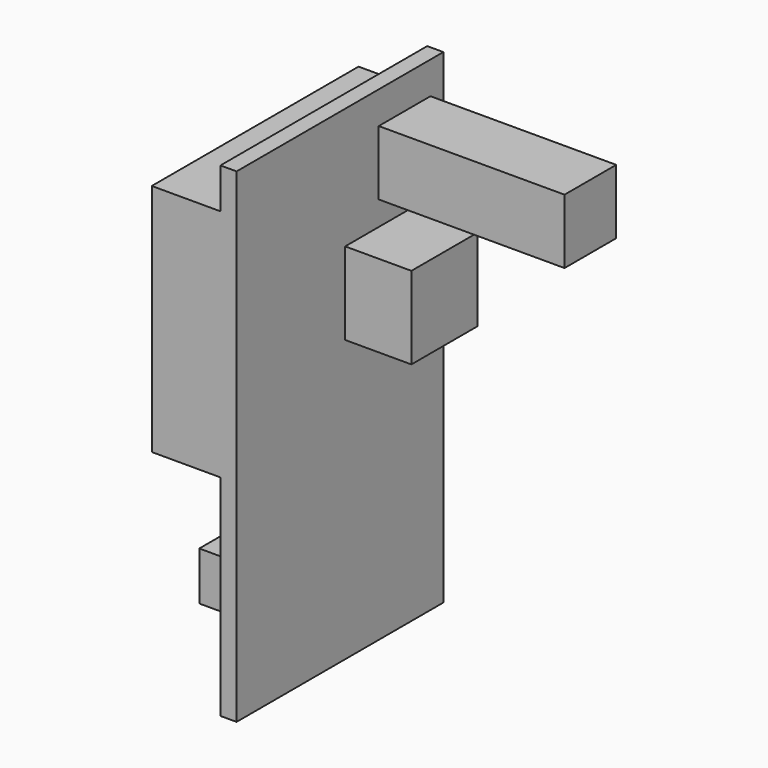
from build123d import *

# Parameters (mm, degrees)
F0_W     = 10.2
F0_H     = 10.2
F0_W_2   = 32
F0_H_2   = 26
F0_W_3   = 6
F0_H_3   = 6
F0_W_4   = 8
F0_H_4   = 7
F0_H_5   = 1
F1_DEPTH = 2
F2_DEPTH = 8.5
F3_DEPTH = 10.2
F4_DEPTH = 25
F6_DEPTH = 5.5


with BuildPart() as f1:
    # F0 (on Right) → F1 (new body)
    with BuildSketch(Plane.YZ):
        Polygon((0, 55), (0, 26), (32, 26), (32, 55), (30, 55), (30, 48), (22, 48), (22, 55), align=None)
        with Locations((21.9, 39.9)):
            Rectangle(F0_W, F0_H, mode=Mode.SUBTRACT)
        with Locations((16, 13)):
            Rectangle(F0_W_2, F0_H_2)
        with Locations((6.6, 12)):
            Rectangle(F0_W_3, F0_H_3, mode=Mode.SUBTRACT)
        with Locations((25.4, 12)):
            Rectangle(F0_W_3, F0_H_3, mode=Mode.SUBTRACT)
        Polygon((0, 60), (0, 55), (22, 55), (22, 56), (30, 56), (30, 55), (32, 55), (32, 60), align=None)
        with Locations((21.9, 39.9)):
            Rectangle(F0_W, F0_H)
        with Locations((26, 51.5)):
            Rectangle(F0_W_4, F0_H_4)
        with Locations((25.4, 12)):
            Rectangle(F0_W_3, F0_H_3)
        with Locations((6.6, 12)):
            Rectangle(F0_W_3, F0_H_3)
        with Locations((26, 55.5)):
            Rectangle(F0_W_4, F0_H_5)
    extrude(amount=F1_DEPTH)

    # F0 (on Right) → F2 (join)
    with BuildSketch(Plane.YZ):
        Polygon((0, 55), (0, 26), (32, 26), (32, 55), (30, 55), (30, 48), (22, 48), (22, 55), align=None)
        with Locations((21.9, 39.9)):
            Rectangle(F0_W, F0_H, mode=Mode.SUBTRACT)
        with Locations((26, 51.5)):
            Rectangle(F0_W_4, F0_H_4)
        with Locations((21.9, 39.9)):
            Rectangle(F0_W, F0_H)
    extrude(amount=-F2_DEPTH)

    # F0 (on Right) → F4 (join)
    with BuildSketch(Plane.YZ):
        with Locations((26, 51.5)):
            Rectangle(F0_W_4, F0_H_4)
        with Locations((26, 55.5)):
            Rectangle(F0_W_4, F0_H_5)
    extrude(amount=F4_DEPTH)


with BuildPart() as f3:
    # F0 (on Right) → F3 (new body)
    with BuildSketch(Plane.YZ):
        with Locations((21.9, 39.9)):
            Rectangle(F0_W, F0_H)
    extrude(amount=F3_DEPTH)

    # F5: union F1
    add(f1.part)

    # F0 (on Right) → F6 (join)
    with BuildSketch(Plane.YZ):
        with Locations((6.6, 12)):
            Rectangle(F0_W_3, F0_H_3)
        with Locations((25.4, 12)):
            Rectangle(F0_W_3, F0_H_3)
    extrude(amount=-F6_DEPTH)


solid = f3.part
